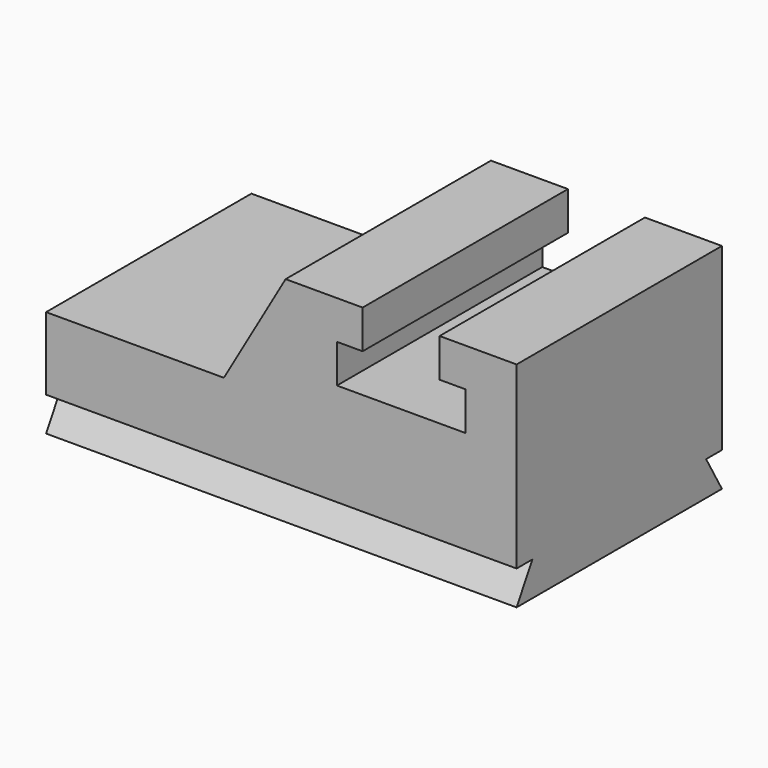
from build123d import *

# Parameters (mm, degrees)
F1_DEPTH = 1524
F3_DEPTH = 2794.001
F5_DEPTH = 2794.001


with BuildPart() as f1:
    # F0 (on Front) → F1 (new body)
    with BuildSketch(Plane.XZ):
        Polygon((-1339.183264, -100.079706), (-1339.183264, -735.079706), (1454.816736, -735.079706), (1454.816736, 534.920294), (997.616736, 534.920294), (997.616736, 306.320294), (1150.016736, 306.320294), (1150.016736, 77.720294), (388.016736, 77.720294), (388.016736, 306.320294), (540.416736, 306.320294), (540.416736, 534.920294), (83.216736, 534.920294), (-283.400685, -100.079706), align=None)
    extrude(amount=F1_DEPTH)

    # F2 (on face) → F3 (cut, through all)
    with BuildSketch(Plane.YZ.offset(1454.816736)):
        Polygon((-117.317575, -531.879706), (0, -735.079706), (0, -531.879706), align=None)
    extrude(amount=-F3_DEPTH, mode=Mode.SUBTRACT)

    # F4 (on face) → F5 (cut, through all)
    with BuildSketch(Plane.YZ.offset(1454.816736)):
        Polygon((-1524, -531.879706), (-1524, -735.079706), (-1406.682425, -531.879706), align=None)
    extrude(amount=-F5_DEPTH, mode=Mode.SUBTRACT)


solid = f1.part
